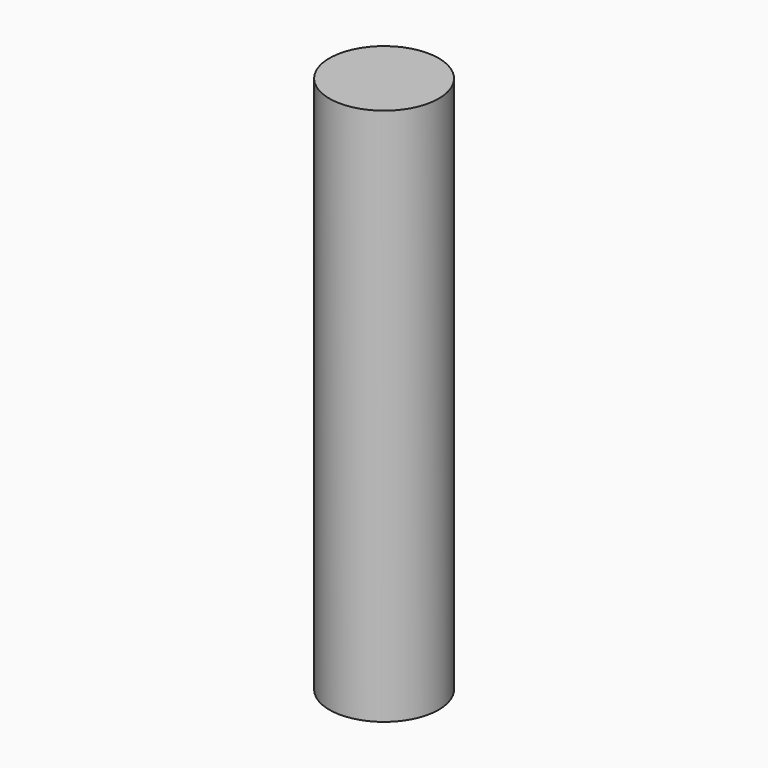
from build123d import *

# Parameters (mm, degrees)
CYLINDER_R     = 1.524
CYLINDER_DEPTH = 15


with BuildPart() as part:
    # Cylinder → Cylinder (new body)
    with BuildSketch(Plane.XY.offset(-2.5)):
        Circle(CYLINDER_R)
    extrude(amount=CYLINDER_DEPTH)


solid = part.part
